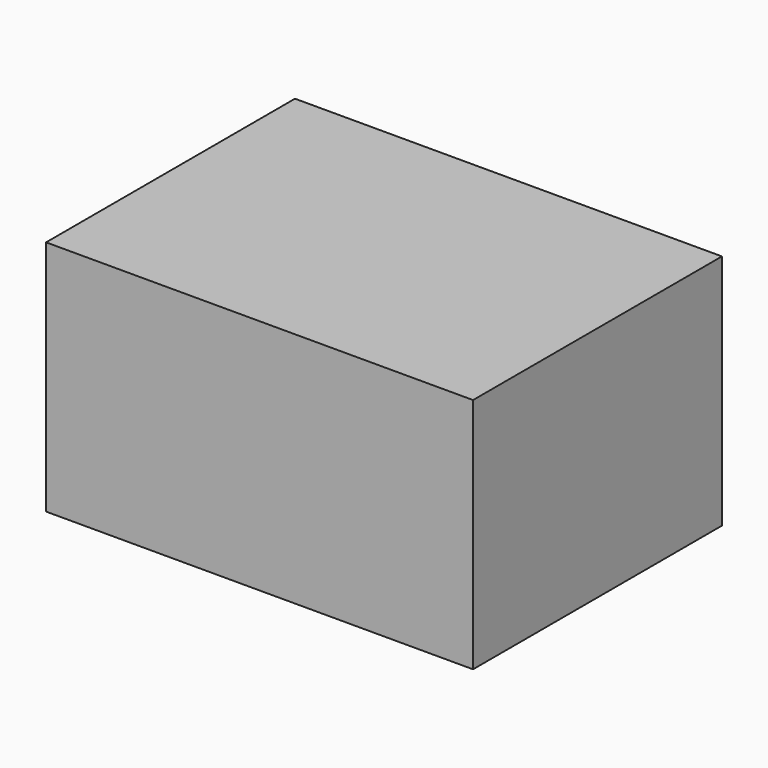
from build123d import *

# Parameters (mm, degrees)
F0_W     = 69.669232
F0_H     = 38.680902
F1_DEPTH = 50.766991
F2_R     = 5.851273
F3_DEPTH = 25.4


with BuildPart() as f1:
    # F0 (on Front) → F1 (new body)
    with BuildSketch(Plane.XZ):
        with Locations((-1.574274, 28.655679)):
            Rectangle(F0_W, F0_H)
    extrude(amount=F1_DEPTH)

    # F2 (on Top) → F3 (join)
    with BuildSketch(Plane.XY):
        with Locations((-40.958062, -19.605368)):
            Circle(F2_R)
    extrude(amount=F3_DEPTH)


solid = f1.part
